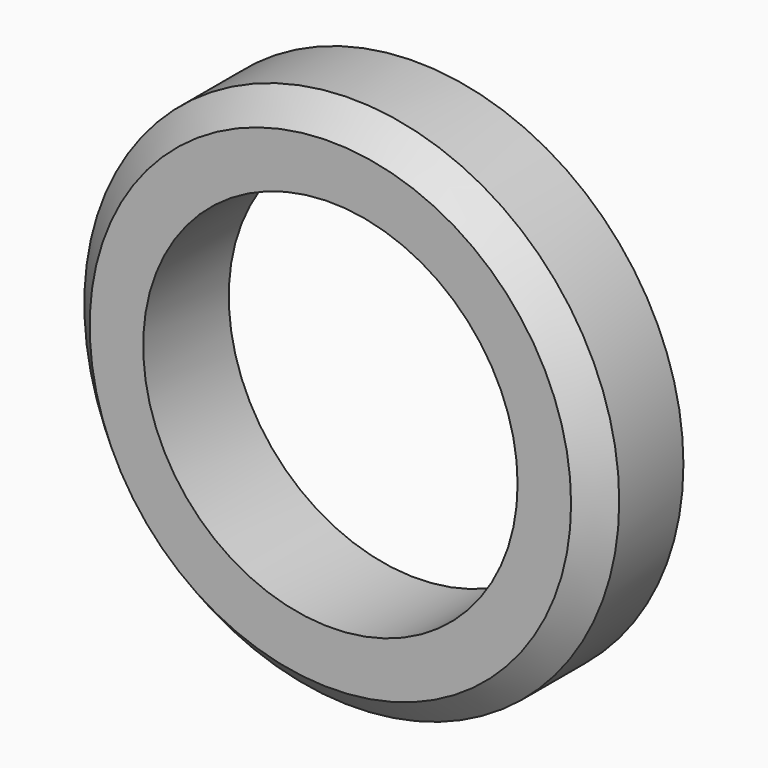
from build123d import *

# Parameters (mm, degrees)
F0_R     = 15.875
F0_R_2   = 11.1125
F1_DEPTH = 6.35
F2_SIZE  = 1.5875


with BuildPart() as f1:
    # F0 (on Front) → F1 (new body)
    with BuildSketch(Plane.XZ):
        Circle(F0_R)
        Circle(F0_R_2, mode=Mode.SUBTRACT)
    extrude(amount=F1_DEPTH)

    # F2
    f2_edges = [f1.edges().sort_by_distance(p)[0] for p in [
        (-15.875, -6.35, 0),
    ]]
    chamfer(f2_edges, length=F2_SIZE)

    # F5: sweep along a path in F3
    with BuildLine(Plane(origin=(0, 0, 0), x_dir=(-1, 0, 0), z_dir=(0, 1, 0))) as f5_path:
        CenterArc((0, 0), 11.90625, 0, 360)
    # F4 (on Right) → F5 (sweep, cut)
    with BuildSketch(Plane.YZ):
        with BuildLine():
            ThreePointArc((1.5875, 13.49375), (1.122532, 14.616282), (0, 15.08125))
            Line((0, 15.08125), (0, 11.90625))
            ThreePointArc((0, 11.90625), (1.122532, 12.371218), (1.5875, 13.49375))
        make_face()
        with BuildLine():
            Line((0, 11.90625), (0, 15.08125))
            ThreePointArc((0, 15.08125), (-1.5875, 13.49375), (0, 11.90625))
        make_face()
    sweep(path=f5_path.line, mode=Mode.SUBTRACT)


solid = f1.part
